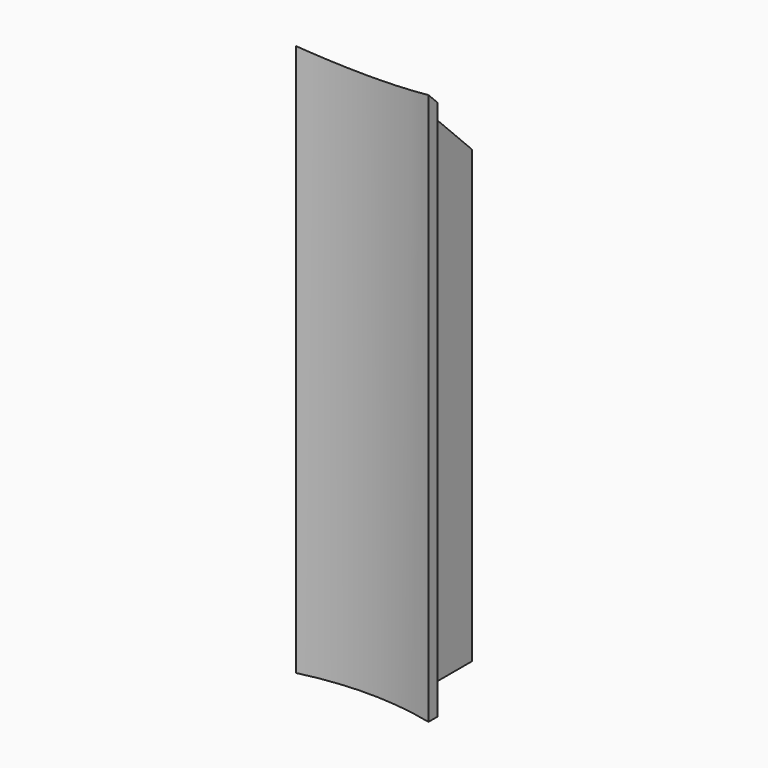
from build123d import *

# Parameters (mm, degrees)
PAD002_DEPTH            = 50
FILLET001_R             = 4
POCKET001_DEPTH         = 8.601
POCKET001_DEPTH_BACK    = 3.401
BODY003_PLACEMENT_ANGLE = 90


with BuildPart() as part:
    # Sketch004 → Pad002 (new body)
    with BuildSketch(Plane.XY):
        with BuildLine():
            ThreePointArc((24.269322, -6), (25, 0), (24.269322, 6))
            Line((24.269322, 6), (25.298221, 6))
            ThreePointArc((25.869673, 2.6), (25.640366, 4.309482), (25.298221, 6))
            Line((25.869673, 2.6), (33.451654, 2.6))
            Line((33.451654, 2.6), (33.451654, 1.6))
            Line((33.451654, 1.6), (26.451654, 1.6))
            Line((26.451654, 1.6), (26.451654, -1.6))
            Line((26.451654, -1.6), (33.451654, -1.6))
            Line((33.451654, -1.6), (33.451654, -2.6))
            Line((33.451654, -2.6), (25.869673, -2.6))
            ThreePointArc((25.298221, -6), (25.640366, -4.309482), (25.869673, -2.6))
            Line((24.269322, -6), (25.298221, -6))
        make_face()
    extrude(amount=PAD002_DEPTH)

    # Fillet001
    fillet001_edges = [part.edges().sort_by_distance(p)[0] for p in [
        (25.869673, -2.6, 25),
        (25.869673, 2.6, 25),
    ]]
    fillet(fillet001_edges, radius=FILLET001_R)

    # Sketch005 (on Face15 of Fillet001) → Pocket001 (cut, two sides)
    with BuildSketch(Plane.XZ.offset(2.6)) as pocket001_sk:
        Polygon((33.451654, 50), (33.451654, 40.817668), (24.269322, 50), align=None)
    extrude(amount=-POCKET001_DEPTH, mode=Mode.SUBTRACT)
    extrude(pocket001_sk.sketch, amount=POCKET001_DEPTH_BACK, mode=Mode.SUBTRACT)


with BuildPart() as part_1:
    # Body003 placement: moved
    add(part.part.rotate(Axis((0, 0, 0), (0, 0, 1)), BODY003_PLACEMENT_ANGLE))


solid = part_1.part
